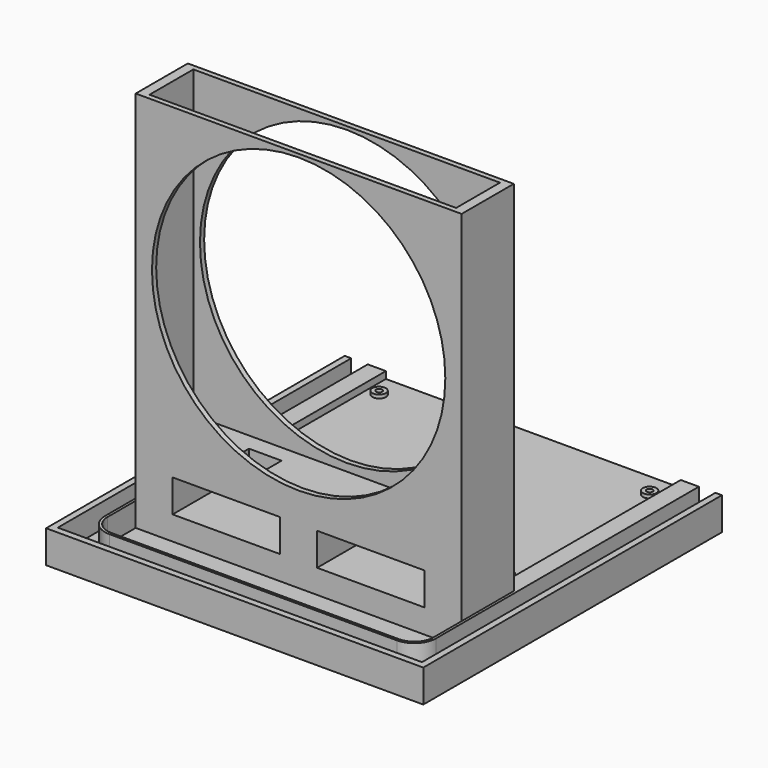
from build123d import *

# Parameters (mm, degrees)
SKETCH_W        = 150
SKETCH_H        = 135
PAD_DEPTH       = 15
SKETCH001_W     = 17
SKETCH001_H     = 30
PAD001_DEPTH    = 15
SKETCH002_W     = 150
SKETCH002_H     = 30
PAD002_DEPTH    = 150
SKETCH003_W     = 141.1
SKETCH003_H     = 25.2
POCKET_DEPTH    = 140
SKETCH004_W     = 15
SKETCH004_H     = 9
POCKET001_DEPTH = 10
SKETCH005_R     = 67.5
POCKET002_DEPTH = 30
SKETCH006_W     = 135.7
SKETCH006_H     = 100.1
POCKET003_DEPTH = 3.2
SKETCH007_R     = 3.1
PAD003_DEPTH    = 1.6
SKETCH008_R     = 1.4
POCKET004_DEPTH = 6
SKETCH009_R     = 1.55
PAD004_DEPTH    = 1.6
SKETCH010_W     = 135
SKETCH010_H     = 15
PAD005_DEPTH    = 10
SKETCH011_W     = 135
SKETCH011_H     = 15
PAD006_DEPTH    = 10
SKETCH012_W     = 7.6
SKETCH012_H     = 135
POCKET005_DEPTH = 11
SKETCH013_W     = 170
SKETCH013_H     = 15
PAD007_DEPTH    = 35
SKETCH014_W     = 150
SKETCH014_H     = 25
POCKET006_DEPTH = 11
SKETCH015_W     = 7.6
SKETCH015_H     = 26.2
POCKET007_DEPTH = 11
SKETCH016_W     = 167.6
SKETCH016_H     = 7.6
POCKET008_DEPTH = 10
SKETCH017_W     = 10
SKETCH017_H     = 10
POCKET009_DEPTH = 11
PAD008_DEPTH    = 11
SKETCH019_W     = 170
SKETCH019_H     = 15
PAD009_DEPTH    = 1.8
SKETCH020_W     = 171.8
SKETCH020_H     = 15
PAD010_DEPTH    = 1.8
SKETCH021_W     = 171.8
SKETCH021_H     = 15
PAD011_DEPTH    = 1.8


with BuildPart() as part:
    # Sketch → Pad (new body)
    with BuildSketch(Plane.XY):
        Rectangle(SKETCH_W, SKETCH_H)
    extrude(amount=PAD_DEPTH)

    # Sketch001 (on Face6 of Pad) → Pad001 (join)
    with BuildSketch(Plane.XY.offset(15)):
        with Locations((-66.5, -52.5)):
            Rectangle(SKETCH001_W, SKETCH001_H)
        with Locations((0, -52.5)):
            Rectangle(SKETCH001_W, SKETCH001_H)
        with Locations((66.5, -52.5)):
            Rectangle(SKETCH001_W, SKETCH001_H)
    extrude(amount=PAD001_DEPTH)

    # Sketch002 (on Face18 of Pad001) → Pad002 (join)
    with BuildSketch(Plane.XY.offset(30)):
        with Locations((0, -52.5)):
            Rectangle(SKETCH002_W, SKETCH002_H)
    extrude(amount=PAD002_DEPTH)

    # Sketch003 (on Face24 of Pad002) → Pocket (cut)
    with BuildSketch(Plane.XY.offset(180)):
        with Locations((0, -52.5)):
            Rectangle(SKETCH003_W, SKETCH003_H)
    extrude(amount=-POCKET_DEPTH, mode=Mode.SUBTRACT)

    # Sketch004 (on Face30 of Pocket) → Pocket001 (cut)
    with BuildSketch(Plane.XY.offset(40)):
        with Locations((-31.05, -52.4)):
            Rectangle(SKETCH004_W, SKETCH004_H)
    extrude(amount=-POCKET001_DEPTH, mode=Mode.SUBTRACT)

    # Sketch005 (on Face20 of Pocket001) → Pocket002 (cut)
    with BuildSketch(Plane.XZ.offset(67.5)):
        with Locations((0, 111)):
            Circle(SKETCH005_R)
    extrude(amount=-POCKET002_DEPTH, mode=Mode.SUBTRACT)

    # Sketch006 (on Face5 of Pocket002) → Pocket003 (cut)
    with BuildSketch(Plane.XY.offset(15)):
        with Locations((0, 17.45)):
            Rectangle(SKETCH006_W, SKETCH006_H)
    extrude(amount=-POCKET003_DEPTH, mode=Mode.SUBTRACT)

    # Sketch007 (on Face8 of Pocket003) → Pad003 (join)
    with BuildSketch(Plane.XY.offset(11.8)):
        with Locations((-62.15, 56.5)):
            Circle(SKETCH007_R)
        with Locations((-62.15, -26)):
            Circle(SKETCH007_R)
        with Locations((62.35, -26)):
            Circle(SKETCH007_R)
        with Locations((62.35, 56.5)):
            Circle(SKETCH007_R)
        with Locations((4.65, 14)):
            Circle(SKETCH007_R)
    extrude(amount=PAD003_DEPTH)

    # Sketch008 (on Face37 of Pad003) → Pocket004 (cut)
    with BuildSketch(Plane.XY.offset(13.4)):
        with Locations((-62.15, 56.5)):
            Circle(SKETCH008_R)
        with Locations((62.35, -26)):
            Circle(SKETCH008_R)
        with Locations((62.35, 56.5)):
            Circle(SKETCH008_R)
        with Locations((-62.15, -26)):
            Circle(SKETCH008_R)
    extrude(amount=-POCKET004_DEPTH, mode=Mode.SUBTRACT)

    # Sketch009 (on Face36 of Pocket004) → Pad004 (join)
    with BuildSketch(Plane.XY.offset(13.4)):
        with Locations((4.65, 14)):
            Circle(SKETCH009_R)
    extrude(amount=PAD004_DEPTH)

    # Sketch010 (on Face10 of Pad004) → Pad005 (join)
    with BuildSketch(Plane.YZ.offset(75)):
        with Locations((0, 7.5)):
            Rectangle(SKETCH010_W, SKETCH010_H)
    extrude(amount=PAD005_DEPTH)

    # Sketch011 (on Face1 of Pad005) → Pad006 (join)
    with BuildSketch(Plane(origin=(-75, 0, 0), x_dir=(0, -1, 0), z_dir=(-1, 0, 0))):
        with Locations((0, 7.5)):
            Rectangle(SKETCH011_W, SKETCH011_H)
    extrude(amount=PAD006_DEPTH)

    # Sketch012 (on Face14 of Pad006) → Pocket005 (cut)
    with BuildSketch(Plane.XY.offset(15)):
        with Locations((-80, 0)):
            Rectangle(SKETCH012_W, SKETCH012_H)
        with Locations((80, 0)):
            Rectangle(SKETCH012_W, SKETCH012_H)
    extrude(amount=-POCKET005_DEPTH, mode=Mode.SUBTRACT)

    # Sketch013 (on Face10 of Pocket005) → Pad007 (join)
    with BuildSketch(Plane.XZ.offset(67.5)):
        with Locations((0, 7.5)):
            Rectangle(SKETCH013_W, SKETCH013_H)
    extrude(amount=PAD007_DEPTH)

    # Sketch014 (on Face21 of Pad007) → Pocket006 (cut)
    with BuildSketch(Plane.XY.offset(15)):
        with Locations((0, -80)):
            Rectangle(SKETCH014_W, SKETCH014_H)
    extrude(amount=-POCKET006_DEPTH, mode=Mode.SUBTRACT)

    # Sketch015 (on Face42 of Pocket006) → Pocket007 (cut)
    with BuildSketch(Plane.XY.offset(15)):
        with Locations((-80, -80.6)):
            Rectangle(SKETCH015_W, SKETCH015_H)
        with Locations((80, -80.6)):
            Rectangle(SKETCH015_W, SKETCH015_H)
    extrude(amount=-POCKET007_DEPTH, mode=Mode.SUBTRACT)

    # Sketch016 (on Face42 of Pocket007) → Pocket008 (cut)
    with BuildSketch(Plane.XY.offset(15)):
        with Locations((0, -97.5)):
            Rectangle(SKETCH016_W, SKETCH016_H)
    extrude(amount=-POCKET008_DEPTH, mode=Mode.SUBTRACT)

    # Sketch017 (on Face42 of Pocket008) → Pocket009 (cut)
    with BuildSketch(Plane.XY.offset(15)):
        with Locations((-71.2, -88.7)):
            Rectangle(SKETCH017_W, SKETCH017_H)
        with Locations((71.2, -88.7)):
            Rectangle(SKETCH017_W, SKETCH017_H)
    extrude(amount=-POCKET009_DEPTH, mode=Mode.SUBTRACT)

    # Sketch018 (on Face80 of Pocket009) → Pad008 (join)
    with BuildSketch(Plane.XY.offset(4)):
        with BuildLine():
            ThreePointArc((66.2, -92.5), (72.42254, -89.92254), (75, -83.7))
            Line((75, -83.7), (76.2, -83.7))
            ThreePointArc((66.2, -93.7), (73.271068, -90.771068), (76.2, -83.7))
            Line((66.2, -93.7), (66.2, -92.5))
        make_face()
        with BuildLine():
            ThreePointArc((-75, -83.7), (-72.42254, -89.92254), (-66.2, -92.5))
            Line((-66.2, -93.7), (-66.2, -92.5))
            ThreePointArc((-76.2, -83.7), (-73.271068, -90.771068), (-66.2, -93.7))
            Line((-76.2, -83.7), (-75, -83.7))
        make_face()
    extrude(amount=PAD008_DEPTH)

    # Sketch019 (on Face17 of Pad008) → Pad009 (join)
    with BuildSketch(Plane(origin=(-85, 0, 0), x_dir=(0, -1, 0), z_dir=(-1, 0, 0))):
        with Locations((17.5, 7.5)):
            Rectangle(SKETCH019_W, SKETCH019_H)
    extrude(amount=PAD009_DEPTH)

    # Sketch020 (on Face40 of Pad009) → Pad010 (join)
    with BuildSketch(Plane.XZ.offset(102.5)):
        with Locations((-0.9, 7.5)):
            Rectangle(SKETCH020_W, SKETCH020_H)
    extrude(amount=PAD010_DEPTH)

    # Sketch021 (on Face39 of Pad010) → Pad011 (join)
    with BuildSketch(Plane.YZ.offset(85)):
        with Locations((-18.4, 7.5)):
            Rectangle(SKETCH021_W, SKETCH021_H)
    extrude(amount=PAD011_DEPTH)


solid = part.part
